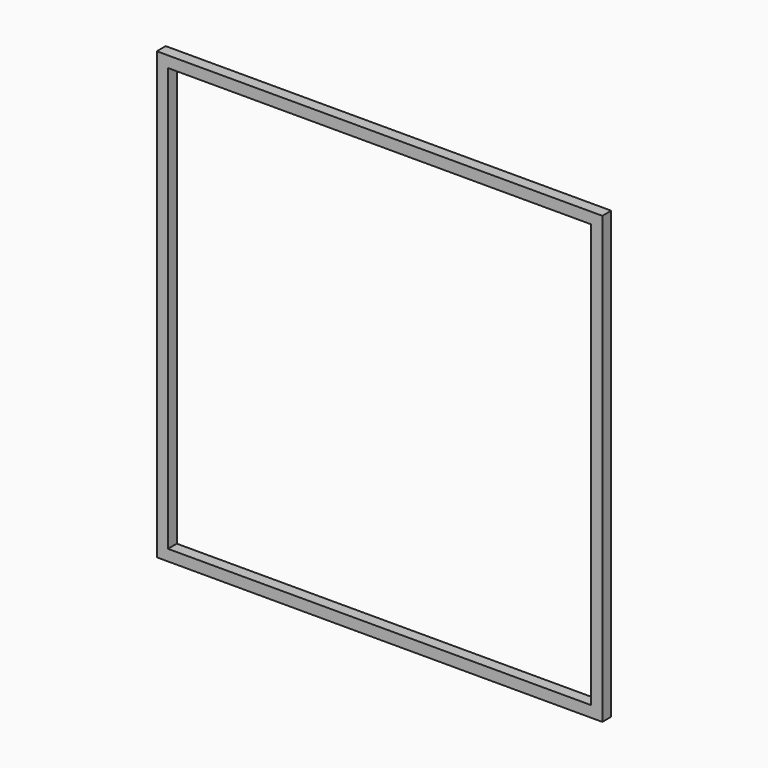
from build123d import *

# Parameters (mm, degrees)
F0_W     = 10000
F0_H     = 10000
F1_DEPTH = 125
F2_W     = 9500
F2_H     = 9500
F3_DEPTH = 250


with BuildPart() as f1:
    # F0 (on Front) → F1 (new body, symmetric)
    with BuildSketch(Plane.XZ):
        Rectangle(F0_W, F0_H)
    extrude(amount=F1_DEPTH, both=True)

    # F2 (on face) → F3 (cut, through all)
    with BuildSketch(Plane.XZ.offset(125)):
        Rectangle(F2_W, F2_H)
    extrude(amount=-F3_DEPTH, mode=Mode.SUBTRACT)


solid = f1.part
